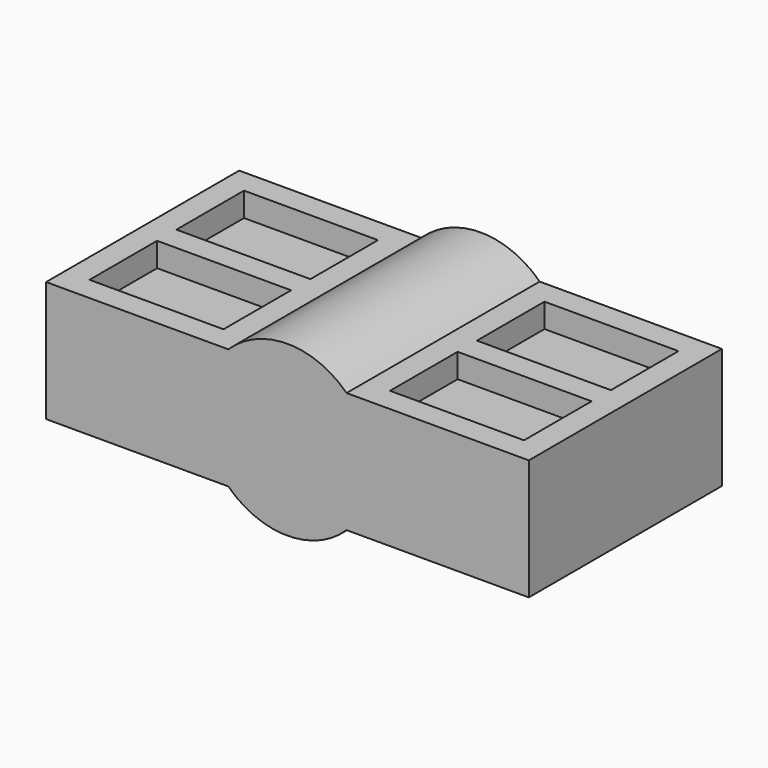
from build123d import *

# Parameters (mm, degrees)
F0_W     = 20
F0_H     = 10
F1_DEPTH = 5
F3_DEPTH = 10
F4_W     = 5.5505102572
F4_H     = 3.5
F5_DEPTH = 1
F6_W     = 5.5505102572
F6_H     = 3.5
F7_DEPTH = 1


with BuildPart() as f1:
    # F0 (on Top) → F1 (new body)
    with BuildSketch(Plane.XY):
        with Locations((10, -5)):
            Rectangle(F0_W, F0_H)
    extrude(amount=F1_DEPTH)

    # F2 (on face) → F3 (join)
    with BuildSketch(Plane.XZ.offset(10)):
        with BuildLine():
            Line((7.5505102572, 5), (12.4494897428, 5))
            ThreePointArc((12.4494897428, 5), (10, 6), (7.5505102572, 5))
        make_face()
        with BuildLine():
            ThreePointArc((7.5505102572, 0), (10, -1), (12.4494897428, 0))
            Line((12.4494897428, 0), (7.5505102572, 0))
        make_face()
    extrude(amount=-F3_DEPTH)

    # F4 (on face) → F5 (cut)
    with BuildSketch(Plane.XY.offset(5)):
        with Locations((3.7752551286, -2.75)):
            Rectangle(F4_W, F4_H)
        with Locations((3.7752551286, -7.25)):
            Rectangle(F4_W, F4_H)
        with Locations((16.2247448714, -2.75)):
            Rectangle(F4_W, F4_H)
        with Locations((16.2247448714, -7.25)):
            Rectangle(F4_W, F4_H)
    extrude(amount=-F5_DEPTH, mode=Mode.SUBTRACT)

    # F6 (on face) → F7 (cut)
    with BuildSketch(Plane(origin=(0, 0, 0), x_dir=(1, 0, 0), z_dir=(0, 0, -1))):
        with Locations((3.7752551286, 7.25)):
            Rectangle(F6_W, F6_H)
        with Locations((16.2247448714, 7.25)):
            Rectangle(F6_W, F6_H)
        with Locations((16.2247448714, 2.75)):
            Rectangle(F6_W, F6_H)
        with Locations((3.7752551286, 2.75)):
            Rectangle(F6_W, F6_H)
    extrude(amount=-F7_DEPTH, mode=Mode.SUBTRACT)


solid = f1.part
